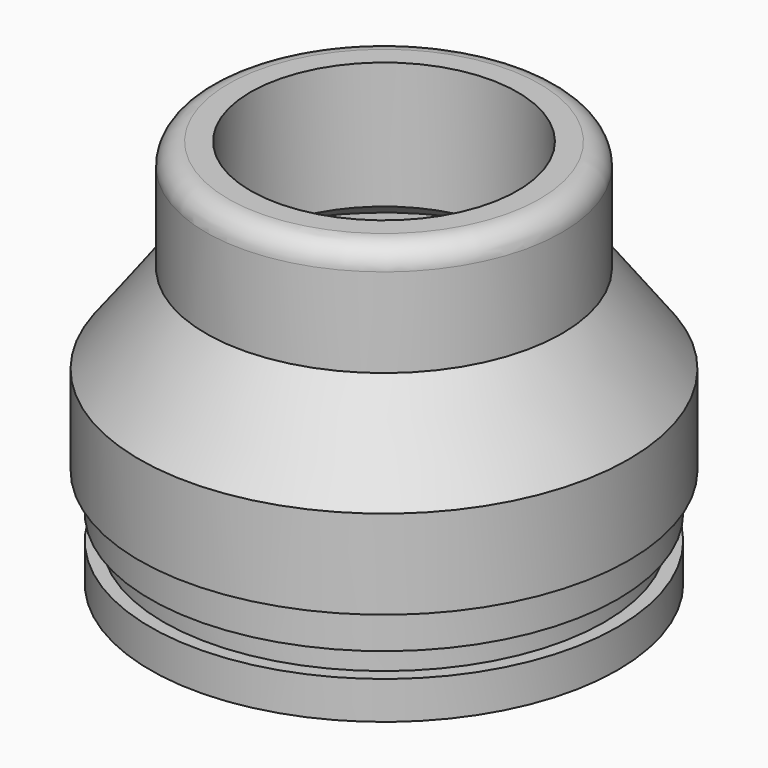
from build123d import *

# Parameters (mm, degrees)
F0_R      = 10.5
F0_R_2    = 9.9
F1_DEPTH  = 1.7
F2_DEPTH  = 2.8
F3_R      = 10.5
F4_DEPTH  = 1.7
F5_R      = 11
F6_DEPTH  = 8
F7_SIZE2  = 4
F7_SIZE   = 3
F8_R      = 8
F9_DEPTH  = 5
F11_D     = 18
F11_DEPTH = 10
F11_TIP   = 5.4077455712
F13_D     = 12
F14_R     = 1


with BuildPart() as f1:
    # F0 (on Top) → F1 (new body)
    with BuildSketch(Plane.XY):
        Circle(F0_R)
        Circle(F0_R_2, mode=Mode.SUBTRACT)
    extrude(amount=F1_DEPTH)

    # F0 (on Top) → F2 (join)
    with BuildSketch(Plane.XY):
        Circle(F0_R_2)
    extrude(amount=F2_DEPTH)

    # F3 (on face) → F4 (join)
    with BuildSketch(Plane.XY.offset(2.8)):
        Circle(F3_R)
    extrude(amount=F4_DEPTH)

    # F5 (on face) → F6 (join)
    with BuildSketch(Plane.XY.offset(4.5)):
        Circle(F5_R)
    extrude(amount=F6_DEPTH)

    # F7
    f7_edges = [f1.edges().sort_by_distance(p)[0] for p in [
        (-11, 0, 12.5),
    ]]
    f7_side = f1.faces().sort_by_distance((0, 0, 12.5))[0]
    chamfer(f7_edges, length=F7_SIZE, length2=F7_SIZE2, reference=f7_side)

    # F8 (on face) → F9 (join)
    with BuildSketch(Plane.XY.offset(12.5)):
        Circle(F8_R)
    extrude(amount=F9_DEPTH)

    # F11
    with Locations(Plane(origin=(0, 0, 0), x_dir=(1, 0, 0), z_dir=(0, 0, -1))):
        with Locations((0, 0)):
            Hole(F11_D / 2, depth=F11_DEPTH)
            with Locations((0, 0, -(F11_DEPTH + F11_TIP / 2))):  # 118° drill point
                Cone(0, F11_D / 2, F11_TIP, mode=Mode.SUBTRACT)

    # F13 (through all)
    with Locations(Plane.XY.offset(17.5)):
        with Locations((0, 0)):
            Hole(F13_D / 2)

    # F14
    f14_edges = [f1.edges().sort_by_distance(p)[0] for p in [
        (-8, 0, 17.5),
    ]]
    fillet(f14_edges, radius=F14_R)


solid = f1.part
